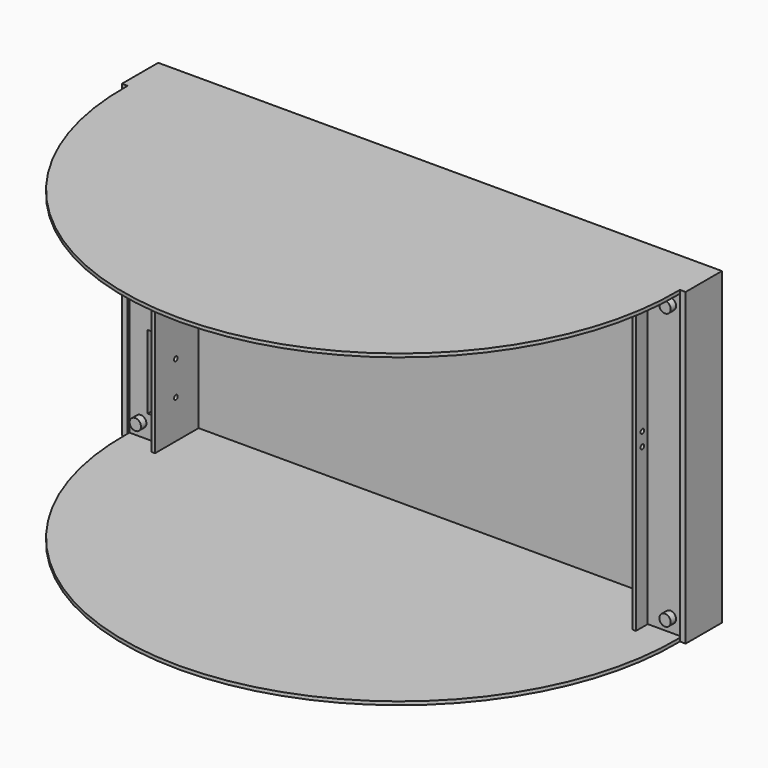
from build123d import *

# Parameters (mm, degrees)
F1_DEPTH  = 3
F2_DEPTH  = 273
F3_START  = 267
F3_DEPTH  = 3
F4_W      = 14
F4_H      = 65
F5_DEPTH  = 30
F7_D      = 4
F7_DEPTH  = 8
F7_TIP    = 1.2017212381
F9_D      = 4
F9_DEPTH  = 8
F9_TIP    = 1.2017212381
F4_R      = 5
F10_DEPTH = 6


with BuildPart() as f1:
    # F0 (on Top) → F1 (new body)
    with BuildSketch(Plane.XY):
        with BuildLine():
            Line((-243.5, 2), (-243.5, 0))
            ThreePointArc((-243.5, 0), (0, -248), (243.5, 0))
            Line((243.5, 0), (243.5, 2))
            Line((243.5, 2), (213.5, 2))
            Line((213.5, 2), (213.5, -11))
            Line((213.5, -11), (210.5, -11))
            Line((210.5, -11), (210.5, 37))
            Line((210.5, 37), (-210.5, 37))
            Line((-210.5, 37), (-210.5, -11))
            Line((-210.5, -11), (-213.5, -11))
            Line((-213.5, -11), (-213.5, 2))
            Line((-213.5, 2), (-243.5, 2))
        make_face()
    extrude(amount=F1_DEPTH)

    # F0 (on Top) → F2 (join)
    with BuildSketch(Plane.XY):
        Polygon((248.5, 40), (-248.5, 40), (-248.5, 0), (-243.5, 0), (-243.5, 2), (-213.5, 2), (-213.5, -11), (-210.5, -11), (-210.5, 37), (210.5, 37), (210.5, -11), (213.5, -11), (213.5, 2), (243.5, 2), (243.5, 0), (248.5, 0), align=None)
    extrude(amount=F2_DEPTH)

    # F1_face (on face) → F3 (join)
    with BuildSketch(Plane(origin=(0, -87.9658672931, 3), x_dir=(1, 0, 0), z_dir=(0, 0, 1)).offset(F3_START)):
        with BuildLine():
            Line((-243.5, 89.9658672931), (-243.5, 87.9658672931))
            ThreePointArc((-243.5, 87.9658672931), (0, -160.0341327069), (243.5, 87.9658672931))
            Line((243.5, 87.9658672931), (243.5, 89.9658672931))
            Line((243.5, 89.9658672931), (213.5, 89.9658672931))
            Line((213.5, 89.9658672931), (213.5, 76.9658672931))
            Line((213.5, 76.9658672931), (210.5, 76.9658672931))
            Line((210.5, 76.9658672931), (210.5, 124.9658672931))
            Line((210.5, 124.9658672931), (-210.5, 124.9658672931))
            Line((-210.5, 124.9658672931), (-210.5, 76.9658672931))
            Line((-210.5, 76.9658672931), (-213.5, 76.9658672931))
            Line((-213.5, 76.9658672931), (-213.5, 89.9658672931))
            Line((-213.5, 89.9658672931), (-243.5, 89.9658672931))
        make_face()
    extrude(amount=F3_DEPTH)

    # F4 (on face) → F5 (cut)
    with BuildSketch(Plane.XZ.offset(-2)):
        with Locations((-220.5, 235.5)):
            Rectangle(F4_W, F4_H)
        with Locations((-220.5, 55.5)):
            Rectangle(F4_W, F4_H)
    extrude(amount=-F5_DEPTH, mode=Mode.SUBTRACT)

    # F7 (one way)
    with BuildSketch(Plane.YZ.offset(-210.5)):
        with Locations((12, 257), (12, 227), (12, 37), (12, 67)):
            Circle(F7_D / 2)
    extrude(amount=-F7_DEPTH, mode=Mode.SUBTRACT)
    with Locations(Plane.YZ.offset(-210.5)):
        with Locations((12, 257), (12, 227), (12, 37), (12, 67)):
            with Locations((0, 0, -(F7_DEPTH + F7_TIP / 2))):  # 118° drill point
                Cone(0, F7_D / 2, F7_TIP, mode=Mode.SUBTRACT)

    # F9 (one way)
    with BuildSketch(Plane(origin=(210.5, 0, 0), x_dir=(0, -1, 0), z_dir=(-1, 0, 0))):
        with Locations((4, 155), (4, 143)):
            Circle(F9_D / 2)
    extrude(amount=-F9_DEPTH, mode=Mode.SUBTRACT)
    with Locations(Plane(origin=(210.5, 0, 0), x_dir=(0, -1, 0), z_dir=(-1, 0, 0))):
        with Locations((4, 155), (4, 143)):
            with Locations((0, 0, -(F9_DEPTH + F9_TIP / 2))):  # 118° drill point
                Cone(0, F9_D / 2, F9_TIP, mode=Mode.SUBTRACT)

    # F4 (on face) → F10 (join)
    with BuildSketch(Plane.XZ.offset(-2)):
        with Locations((-233.5, 258)):
            Circle(F4_R)
        with Locations((-233.5, 15)):
            Circle(F4_R)
        with Locations((233.5, 15)):
            Circle(F4_R)
        with Locations((233.5, 258)):
            Circle(F4_R)
    extrude(amount=F10_DEPTH)


solid = f1.part
